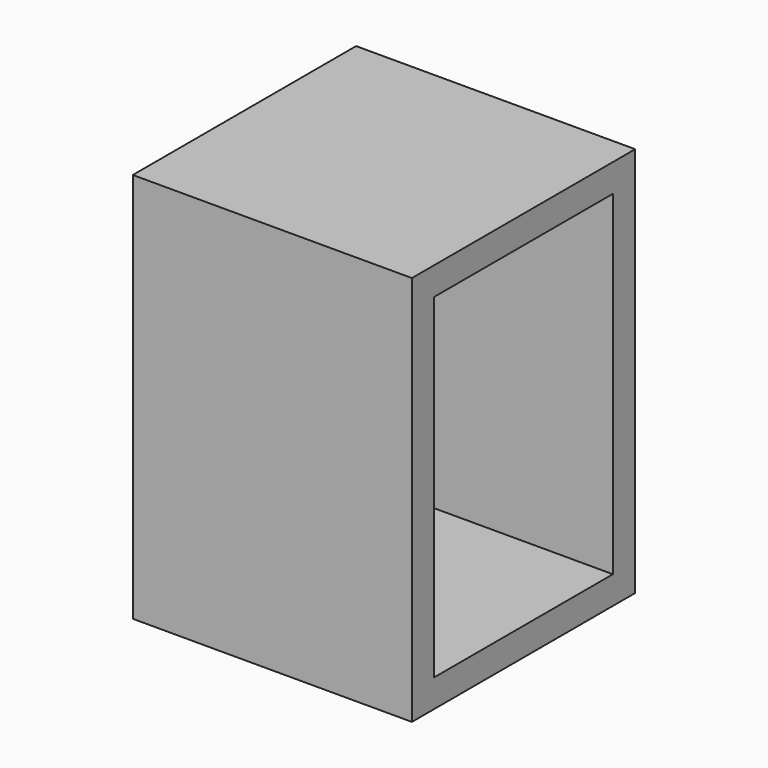
from build123d import *

# Parameters (mm, degrees)
F0_W     = 250
F0_H     = 350
F1_DEPTH = 250
F2_W     = 200
F2_H     = 300
F3_DEPTH = 250.001


with BuildPart() as f1:
    # F0 (on Front) → F1 (new body)
    with BuildSketch(Plane.XZ):
        with Locations((-125, 175)):
            Rectangle(F0_W, F0_H)
    extrude(amount=F1_DEPTH)

    # F2 (on face) → F3 (cut, through all)
    with BuildSketch(Plane.YZ):
        with Locations((-125, 175)):
            Rectangle(F2_W, F2_H)
    extrude(amount=-F3_DEPTH, mode=Mode.SUBTRACT)


solid = f1.part
